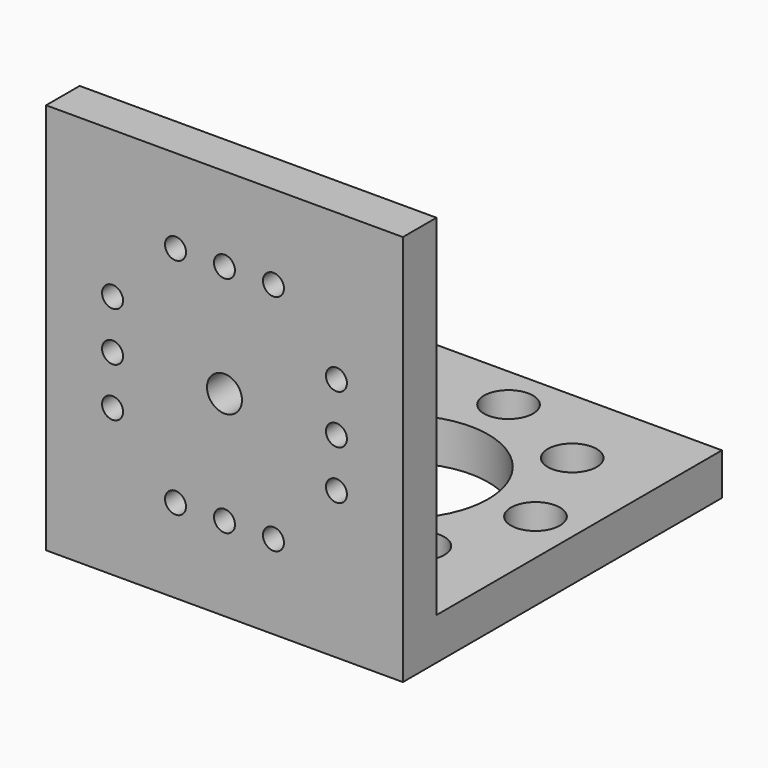
from build123d import *

# Parameters (mm, degrees)
F0_W     = 25.908
F0_H     = 25.908
F0_R     = 1.778
F1_DEPTH = 3.048
F2_W     = 25.908
F2_H     = 3.048
F3_DEPTH = 28.448
F4_R     = 0.762
F4_R_2   = 1.27
F5_DEPTH = 25.4


with BuildPart() as f1:
    # F0 (on Top) → F1 (new body)
    with BuildSketch(Plane.XY):
        Rectangle(F0_W, F0_H)
        with BuildLine():
            ThreePointArc((-5.1367972132, -6.9147972132), (-8.557455022, -7.595208356), (-5.6575613563, -5.6575613563))
            ThreePointArc((-5.6575613563, -5.6575613563), (-5.2721394044, -6.2343860705), (-5.1367972132, -6.9147972132))
        make_face(mode=Mode.SUBTRACT)
        with Locations((0, -9.779)):
            Circle(F0_R, mode=Mode.SUBTRACT)
        with BuildLine():
            ThreePointArc((8.6927972132, -6.9147972132), (6.2343860705, -8.557455022), (5.6575613563, -5.6575613563))
            ThreePointArc((5.6575613563, -5.6575613563), (7.595208356, -5.2721394044), (8.6927972132, -6.9147972132))
        make_face(mode=Mode.SUBTRACT)
        with Locations((-9.779, 0)):
            Circle(F0_R, mode=Mode.SUBTRACT)
        with BuildLine():
            ThreePointArc((-5.1367972132, 6.9147972132), (-5.2721394044, 6.2343860705), (-5.6575613563, 5.6575613563))
            ThreePointArc((-5.6575613563, 5.6575613563), (-8.557455022, 7.595208356), (-5.1367972132, 6.9147972132))
        make_face(mode=Mode.SUBTRACT)
        with BuildLine():
            ThreePointArc((4.4901280605, 4.4901280605), (5.8666350314, 2.4300397955), (6.35, 0))
            ThreePointArc((6.35, 0), (5.8666350314, -2.4300397955), (4.4901280605, -4.4901280605))
            ThreePointArc((4.4901280605, -4.4901280605), (0, -6.35), (-4.4901280605, -4.4901280605))
            ThreePointArc((-4.4901280605, -4.4901280605), (-6.35, 0), (-4.4901280605, 4.4901280605))
            ThreePointArc((-4.4901280605, 4.4901280605), (0, 6.35), (4.4901280605, 4.4901280605))
        make_face(mode=Mode.SUBTRACT)
        with Locations((9.779, 0)):
            Circle(F0_R, mode=Mode.SUBTRACT)
        with Locations((0, 9.779)):
            Circle(F0_R, mode=Mode.SUBTRACT)
        with BuildLine():
            ThreePointArc((8.6927972132, 6.9147972132), (7.595208356, 5.2721394044), (5.6575613563, 5.6575613563))
            ThreePointArc((5.6575613563, 5.6575613563), (6.2343860705, 8.557455022), (8.6927972132, 6.9147972132))
        make_face(mode=Mode.SUBTRACT)
    extrude(amount=F1_DEPTH)

    # F2 (on face) → F3 (join)
    with BuildSketch(Plane(origin=(0, 0, 0), x_dir=(1, 0, 0), z_dir=(0, 0, -1))):
        with Locations((0, 14.478)):
            Rectangle(F2_W, F2_H)
    extrude(amount=-F3_DEPTH)

    # F4 (on face) → F5 (cut)
    with BuildSketch(Plane.XZ.offset(16.002)):
        with Locations((-8.128, 14.224)):
            Circle(F4_R)
        with Locations((-8.128, 17.78)):
            Circle(F4_R)
        with Locations((-8.128, 10.668)):
            Circle(F4_R)
        with Locations((-3.556, 6.096)):
            Circle(F4_R)
        with Locations((0, 6.096)):
            Circle(F4_R)
        with Locations((3.556, 6.096)):
            Circle(F4_R)
        with Locations((8.128, 10.668)):
            Circle(F4_R)
        with Locations((8.128, 14.224)):
            Circle(F4_R)
        with Locations((8.128, 17.78)):
            Circle(F4_R)
        with Locations((3.556, 22.352)):
            Circle(F4_R)
        with Locations((0, 22.352)):
            Circle(F4_R)
        with Locations((-3.556, 22.352)):
            Circle(F4_R)
        with Locations((0, 14.224)):
            Circle(F4_R_2)
    extrude(amount=-F5_DEPTH, mode=Mode.SUBTRACT)


solid = f1.part
